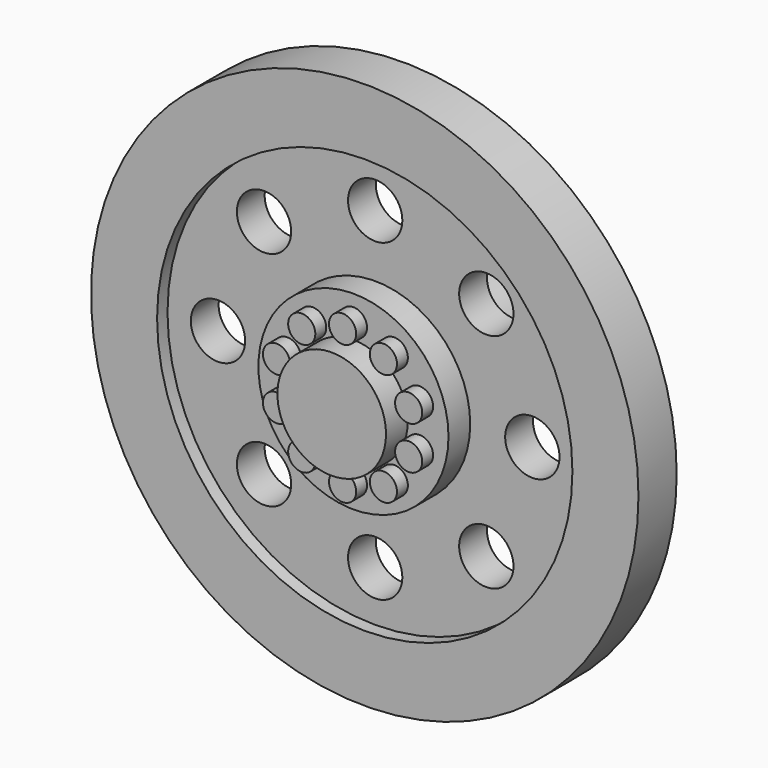
from build123d import *

# Parameters (mm, degrees)
F0_R      = 16.002
F1_DEPTH  = 2.032
F2_R      = 1.5875
F3_DEPTH  = 20.32
F5_R      = 3.175
F6_DEPTH  = 3.175
F4_R      = 5.55625
F7_DEPTH  = 1.5875
F8_R      = 0.79375
F9_DEPTH  = 0.79375
F10_R     = 3.175
F11_DEPTH = 9.525
F12_R     = 16.002
F12_R_2   = 12.139806815
F13_DEPTH = 0.762


with BuildPart() as f1:
    # F0 (on Front) → F1 (new body)
    with BuildSketch(Plane.XZ):
        Circle(F0_R)
    extrude(amount=F1_DEPTH)

    # F2 (on face) → F3 (cut)
    with BuildSketch(Plane.XZ.offset(2.032)):
        with Locations((0, 9.1884150909)):
            Circle(F2_R)
        with Locations((6.4971906191, 6.4971906191)):
            Circle(F2_R)
        with Locations((9.1884150909, 0)):
            Circle(F2_R)
        with Locations((6.4971906191, -6.4971906191)):
            Circle(F2_R)
        with Locations((0, -9.1884150909)):
            Circle(F2_R)
        with Locations((-6.4971906191, -6.4971906191)):
            Circle(F2_R)
        with Locations((-9.1884150909, 0)):
            Circle(F2_R)
        with Locations((-6.4971906191, 6.4971906191)):
            Circle(F2_R)
    extrude(amount=-F3_DEPTH, mode=Mode.SUBTRACT)

    # F5 (on face) → F6 (join)
    with BuildSketch(Plane.XZ.offset(2.032)):
        Circle(F5_R)
    extrude(amount=F6_DEPTH)

    # F4 (on face) → F7 (join)
    with BuildSketch(Plane.XZ.offset(2.032)):
        Circle(F4_R)
    extrude(amount=F7_DEPTH)

    # F10 (on face) → F11 (join)
    with BuildSketch(Plane(origin=(0, 0, 0), x_dir=(-1, 0, 0), z_dir=(0, 1, 0))):
        Circle(F10_R)
    extrude(amount=F11_DEPTH)

    # F12 (on face) → F13 (join)
    with BuildSketch(Plane.XZ.offset(2.032)):
        Circle(F12_R)
        Circle(F12_R_2, mode=Mode.SUBTRACT)
    extrude(amount=F13_DEPTH)


with BuildPart() as f9:
    # F8 (on face) → F9 (new body)
    with BuildSketch(Plane.XZ.offset(3.6195)):
        with Locations((0, 4.0617209223)):
            Circle(F8_R)
    extrude(amount=F9_DEPTH)


with BuildPart() as f9b:
    # F8 (on face) → F9, piece 2 (new body)
    with BuildSketch(Plane.XZ.offset(3.6195)):
        with Locations((2.387419657, 3.2860012525)):
            Circle(F8_R)
    extrude(amount=F9_DEPTH)


with BuildPart() as f9c:
    # F8 (on face) → F9, piece 3 (new body)
    with BuildSketch(Plane.XZ.offset(3.6195)):
        with Locations((3.8629261505, 1.2551407914)):
            Circle(F8_R)
    extrude(amount=F9_DEPTH)


with BuildPart() as f9d:
    # F8 (on face) → F9, piece 4 (new body)
    with BuildSketch(Plane.XZ.offset(3.6195)):
        with Locations((3.8629261505, -1.2551407914)):
            Circle(F8_R)
    extrude(amount=F9_DEPTH)


with BuildPart() as f9e:
    # F8 (on face) → F9, piece 5 (new body)
    with BuildSketch(Plane.XZ.offset(3.6195)):
        with Locations((2.387419657, -3.2860012525)):
            Circle(F8_R)
    extrude(amount=F9_DEPTH)


with BuildPart() as f9f:
    # F8 (on face) → F9, piece 6 (new body)
    with BuildSketch(Plane.XZ.offset(3.6195)):
        with Locations((0, -4.0617209223)):
            Circle(F8_R)
    extrude(amount=F9_DEPTH)


with BuildPart() as f9g:
    # F8 (on face) → F9, piece 7 (new body)
    with BuildSketch(Plane.XZ.offset(3.6195)):
        with Locations((-2.387419657, -3.2860012525)):
            Circle(F8_R)
    extrude(amount=F9_DEPTH)


with BuildPart() as f9h:
    # F8 (on face) → F9, piece 8 (new body)
    with BuildSketch(Plane.XZ.offset(3.6195)):
        with Locations((-3.8629261505, -1.2551407914)):
            Circle(F8_R)
    extrude(amount=F9_DEPTH)


with BuildPart() as f9i:
    # F8 (on face) → F9, piece 9 (new body)
    with BuildSketch(Plane.XZ.offset(3.6195)):
        with Locations((-3.8629261505, 1.2551407914)):
            Circle(F8_R)
    extrude(amount=F9_DEPTH)


with BuildPart() as f9j:
    # F8 (on face) → F9, piece 10 (new body)
    with BuildSketch(Plane.XZ.offset(3.6195)):
        with Locations((-2.387419657, 3.2860012525)):
            Circle(F8_R)
    extrude(amount=F9_DEPTH)


solid = Compound([f1.part, f9.part, f9b.part, f9c.part, f9d.part, f9e.part, f9f.part, f9g.part, f9h.part, f9i.part, f9j.part])
